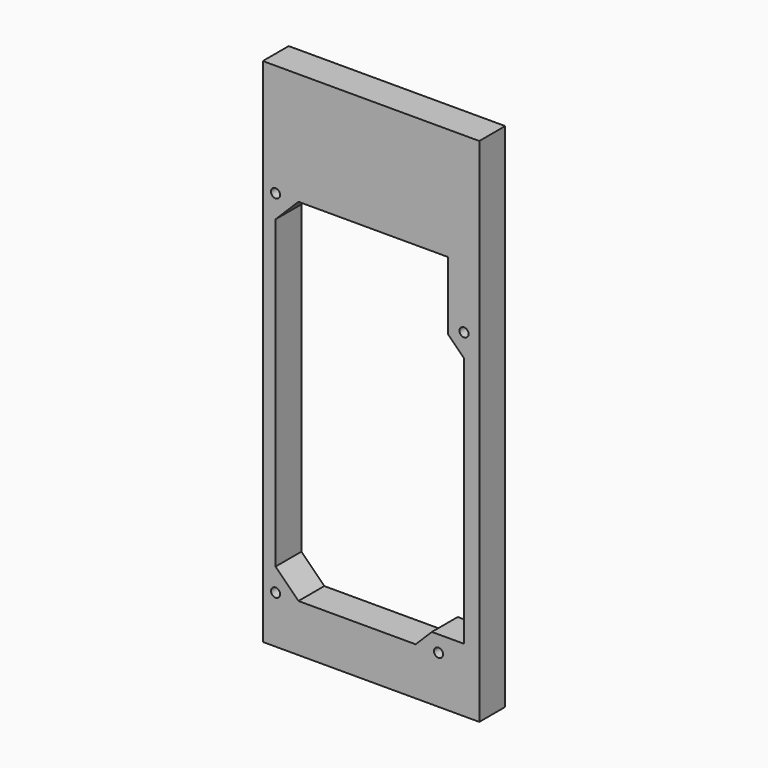
from build123d import *

# Parameters (mm, degrees)
F0_W     = 85
F0_H     = 200.8
F1_DEPTH = 12.7
F3_R     = 1.778
F4_DEPTH = 12.701
F5_R     = 1.778
F6_DEPTH = 12.701


with BuildPart() as f1:
    # F0 (on Front) → F1 (new body)
    with BuildSketch(Plane.XZ):
        Rectangle(F0_W, F0_H)
    extrude(amount=F1_DEPTH)

    # F3 (on face) → F4 (cut, through all)
    with BuildSketch(Plane.XZ.offset(12.7)):
        with Locations((-37.5, 56.3)):
            Circle(F3_R)
        with Locations((36.5, 32.3)):
            Circle(F3_R)
        with Locations((26.5, -81.7)):
            Circle(F3_R)
        with Locations((-37.5, -81.7)):
            Circle(F3_R)
    extrude(amount=-F4_DEPTH, mode=Mode.SUBTRACT)

    # F5 (on face) → F6 (cut, through all)
    with BuildSketch(Plane.XZ.offset(12.7)):
        Polygon((-28.519744, 56.3), (-37.5, 47.319744), (-37.5, -72.719744), (-28.519744, -81.7), (17.519744, -81.7), (23.869744, -75.35), (36.5, -75.35), (36.5, 23.319744), (30.15, 29.669744), (30.15, 56.3), align=None)
        with Locations((36.5, 32.3)):
            Circle(F5_R)
        with Locations((-37.5, -81.7)):
            Circle(F5_R)
        with Locations((26.5, -81.7)):
            Circle(F5_R)
    extrude(amount=-F6_DEPTH, mode=Mode.SUBTRACT)


solid = f1.part
